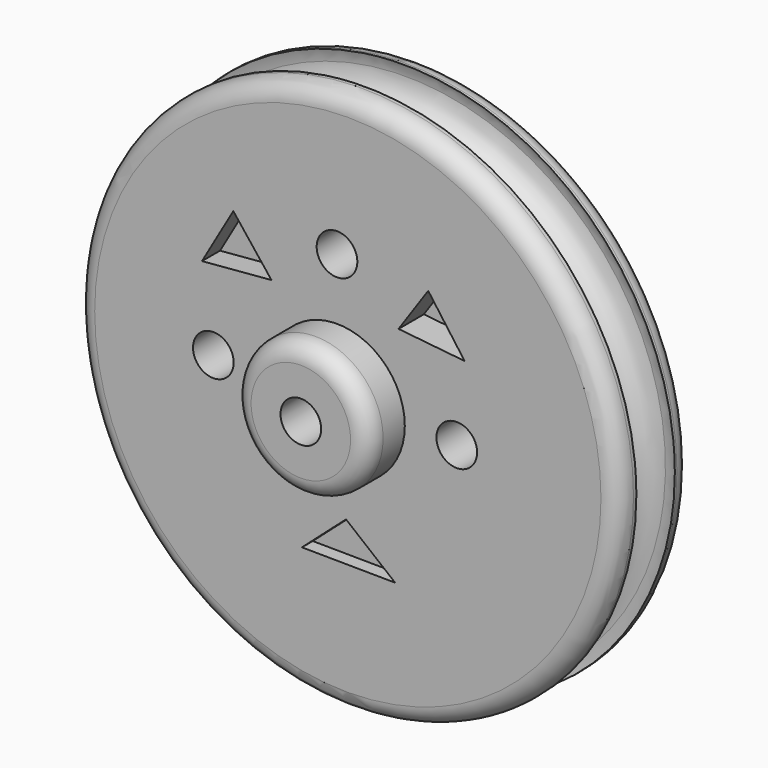
from build123d import *

# Parameters (mm, degrees)
F0_R      = 76.2
F1_DEPTH  = 25.4
F2_R      = 19.05
F3_DEPTH  = 12.7
F4_R      = 5.08
F5_R      = 7.4843991105
F8_R      = 5.08
F9_R      = 5.715
F10_DEPTH = 38.1
F12_D     = 11.43
F15_D     = 11.43
F16_D     = 11.43
F18_DEPTH = 6.35
F20_DEPTH = 8.89
F22_DEPTH = 3.81


with BuildPart() as f1:
    # F0 (on Front) → F1 (new body)
    with BuildSketch(Plane.XZ):
        with Locations((3.0447455747, 0)):
            Circle(F0_R)
    extrude(amount=F1_DEPTH)

    # F2 (on face) → F3 (join)
    with BuildSketch(Plane.XZ.offset(25.4)):
        Circle(F2_R)
    extrude(amount=F3_DEPTH)

    # F4
    f4_edges = [f1.edges().sort_by_distance(p)[0] for p in [
        (79.244746, -12.7, 0),
        (-73.155254, 0, 0),
        (-73.155254, -25.4, 0),
    ]]
    fillet(f4_edges, radius=F4_R)

    # F5 (on Right) → F6 (revolve, cut)
    with BuildSketch(Plane.YZ):
        with Locations((-12.5674738179, 72.9161991943)):
            Circle(F5_R)
    revolve(axis=Axis((3.0447455747, 0, 0), (0, -1, 0)), mode=Mode.SUBTRACT)

    # F8
    f8_edges = [f1.edges().sort_by_distance(p)[0] for p in [
        (-19.05, -38.1, 0),
    ]]
    fillet(f8_edges, radius=F8_R)

    # F9 (on face) → F10 (cut)
    with BuildSketch(Plane.XZ.offset(38.1)):
        Circle(F9_R)
    extrude(amount=-F10_DEPTH, mode=Mode.SUBTRACT)

    # F12 (through all)
    with Locations(Plane.XZ.offset(25.4)):
        with Locations((0, 36.245391153)):
            Hole(F12_D / 2)

    # F15 (through all)
    with Locations(Plane.XZ.offset(25.4)):
        with Locations((-34.7395679537, 0)):
            Hole(F15_D / 2)

    # F16 (through all)
    with Locations(Plane.XZ.offset(25.4)):
        with Locations((33.6454086633, 0)):
            Hole(F16_D / 2)

    # F17 (on face) → F18 (cut)
    with BuildSketch(Plane.XZ.offset(25.4)):
        Polygon((-29.1296672076, 37.4430716038), (-37.9374213517, 22.2080387175), (-18.4175334871, 23.8743703812), align=None)
    extrude(amount=-F18_DEPTH, mode=Mode.SUBTRACT)

    # F19 (on face) → F20 (cut)
    with BuildSketch(Plane.XZ.offset(25.4)):
        Polygon((25.6212372333, 35.5386920273), (17.2895789146, 23.3982745558), (35.8572751284, 21.4938949794), align=None)
    extrude(amount=-F20_DEPTH, mode=Mode.SUBTRACT)

    # F21 (on face) → F22 (cut)
    with BuildSketch(Plane.XZ.offset(25.4)):
        Polygon((2.5306392927, -28.4960605204), (-9.8478263244, -39.4462421536), (16.3373891264, -39.6842882037), align=None)
    extrude(amount=-F22_DEPTH, mode=Mode.SUBTRACT)


solid = f1.part
